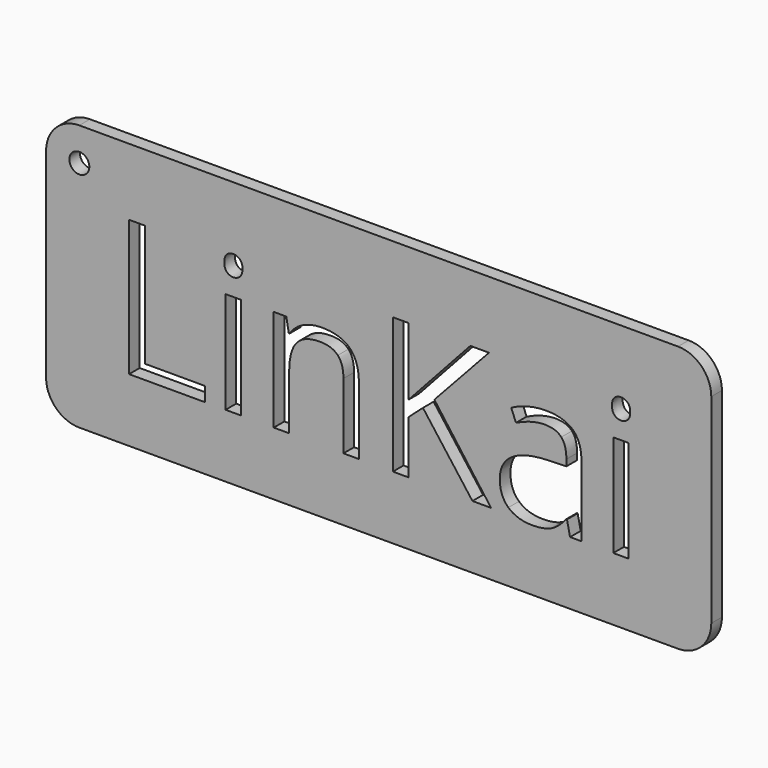
from build123d import *

# Parameters (mm, degrees)
F0_W     = 2.3208496367
F0_H     = 15.3158188932
F0_R     = 1.5
F1_DEPTH = 2


with BuildPart() as f1:
    # F0 (on Front) → F1 (new body)
    with BuildSketch(Plane.XZ):
        with BuildLine():
            ThreePointArc((0, 5), (1.4644660941, 1.4644660941), (5, 0))
            Line((5, 0), (95, 0))
            ThreePointArc((95, 0), (98.5355339059, 1.4644660941), (100, 5))
            Line((100, 5), (100, 35))
            ThreePointArc((100, 35), (98.5355339059, 38.5355339059), (95, 40))
            Line((95, 40), (5, 40))
            ThreePointArc((5, 40), (1.4644660941, 38.5355339059), (0, 35))
            Line((0, 35), (0, 5))
        make_face()
        Polygon((23.8661115754, 9.5062389972), (12.4765084451, 9.5062389972), (12.4765084451, 29.9377649894), (14.8510193451, 29.9377649894), (14.8510193451, 11.6571613002), (23.8661115754, 11.6571613002), align=None, mode=Mode.SUBTRACT)
        with Locations((28.1433614356, 17.1641484438)):
            Rectangle(F0_W, F0_H, mode=Mode.SUBTRACT)
        with BuildLine():
            Line((47.0254184507, 9.5062389972), (44.7045688141, 9.5062389972))
            Line((44.7045688141, 9.5062389972), (44.7045688141, 19.4156856154))
            add(Edge.make_bspline(
                [(44.7045688141, 19.4156856154), (44.7045688141, 21.2848862862), (43.8526962596, 22.2083071917)],
                knots=[0, 0, 0, 1, 1, 1], degree=2))
            add(Edge.make_bspline(
                [(43.8526962596, 22.2083071917), (43.0008237051, 23.1317280973), (41.1808125256, 23.1317280973)],
                knots=[0, 0, 0, 1, 1, 1], degree=2))
            add(Edge.make_bspline(
                [(41.1808125256, 23.1317280973), (38.779470994, 23.1317280973), (37.6615280091, 21.8326783488)],
                knots=[0, 0, 0, 1, 1, 1], degree=2))
            add(Edge.make_bspline(
                [(37.6615280091, 21.8326783488), (36.5435850242, 20.5336286004), (36.5435850242, 17.5420131727)],
                knots=[0, 0, 0, 1, 1, 1], degree=2))
            Line((36.5435850242, 17.5420131727), (36.5435850242, 9.5062389972))
            Line((36.5435850242, 9.5062389972), (34.2227353876, 9.5062389972))
            Line((34.2227353876, 9.5062389972), (34.2227353876, 24.8220578905))
            Line((34.2227353876, 24.8220578905), (36.1098231461, 24.8220578905))
            Line((36.1098231461, 24.8220578905), (36.485451989, 22.7247968508))
            Line((36.485451989, 22.7247968508), (36.5972462875, 22.7247968508))
            add(Edge.make_bspline(
                [(36.5972462875, 22.7247968508), (37.3127297978, 23.8561551515), (38.5983642305, 24.4799673371)],
                knots=[0, 0, 0, 1, 1, 1], degree=2))
            add(Edge.make_bspline(
                [(38.5983642305, 24.4799673371), (39.8839986631, 25.1037795227), (41.4625341578, 25.1037795227)],
                knots=[0, 0, 0, 1, 1, 1], degree=2))
            add(Edge.make_bspline(
                [(41.4625341578, 25.1037795227), (44.2305609885, 25.1037795227), (45.6279897196, 23.7689555987)],
                knots=[0, 0, 0, 1, 1, 1], degree=2))
            add(Edge.make_bspline(
                [(45.6279897196, 23.7689555987), (47.0254184507, 22.4341316747), (47.0254184507, 19.4961775104)],
                knots=[0, 0, 0, 1, 1, 1], degree=2))
            Line((47.0254184507, 19.4961775104), (47.0254184507, 9.5062389972))
        make_face(mode=Mode.SUBTRACT)
        Polygon((58.3703038616, 21.0612976892), (66.8935011785, 9.5062389972), (64.0986437162, 9.5062389972), (56.6531434368, 19.4156856154), (54.5111646777, 17.5151825411), (54.5111646777, 9.5062389972), (52.1366537777, 9.5062389972), (52.1366537777, 29.9377649894), (54.5111646777, 29.9377649894), (54.5111646777, 19.8047297742), (63.7766761366, 29.9377649894), (66.5849489147, 29.9377649894), align=None, mode=Mode.SUBTRACT)
        with BuildLine():
            Line((80.4921596469, 9.5062389972), (78.7705274502, 9.5062389972))
            Line((78.7705274502, 9.5062389972), (78.3099349404, 11.6884637038))
            Line((78.3099349404, 11.6884637038), (78.1981406419, 11.6884637038))
            add(Edge.make_bspline(
                [(78.1981406419, 11.6884637038), (77.0533670254, 10.2485531392), (75.9153010667, 9.7365352521)],
                knots=[0, 0, 0, 1, 1, 1], degree=2))
            add(Edge.make_bspline(
                [(75.9153010667, 9.7365352521), (74.7772351081, 9.224517365), (73.0690182271, 9.224517365)],
                knots=[0, 0, 0, 1, 1, 1], degree=2))
            add(Edge.make_bspline(
                [(73.0690182271, 9.224517365), (70.7928863099, 9.224517365), (69.5005442193, 10.4005933852)],
                knots=[0, 0, 0, 1, 1, 1], degree=2))
            add(Edge.make_bspline(
                [(69.5005442193, 10.4005933852), (68.2082021288, 11.5766694053), (68.2082021288, 13.7410070241)],
                knots=[0, 0, 0, 1, 1, 1], degree=2))
            add(Edge.make_bspline(
                [(68.2082021288, 13.7410070241), (68.2082021288, 18.3782345255), (75.6268717766, 18.6018231224)],
                knots=[0, 0, 0, 1, 1, 1], degree=2))
            Line((75.6268717766, 18.6018231224), (78.2249712735, 18.6867867893))
            Line((78.2249712735, 18.6867867893), (78.2249712735, 19.6392742124))
            add(Edge.make_bspline(
                [(78.2249712735, 19.6392742124), (78.2249712735, 21.4413983041), (77.451354728, 22.2999785165)],
                knots=[0, 0, 0, 1, 1, 1], degree=2))
            add(Edge.make_bspline(
                [(77.451354728, 22.2999785165), (76.6777381824, 23.1585587289), (74.9695213015, 23.1585587289)],
                knots=[0, 0, 0, 1, 1, 1], degree=2))
            add(Edge.make_bspline(
                [(74.9695213015, 23.1585587289), (73.0556029113, 23.1585587289), (70.6408460639, 21.9869544807)],
                knots=[0, 0, 0, 1, 1, 1], degree=2))
            Line((70.6408460639, 21.9869544807), (69.9253625536, 23.7622479408))
            add(Edge.make_bspline(
                [(69.9253625536, 23.7622479408), (71.0567208543, 24.3748806965), (72.4049600941, 24.7236789078)],
                knots=[0, 0, 0, 1, 1, 1], degree=2))
            add(Edge.make_bspline(
                [(72.4049600941, 24.7236789078), (73.7531993339, 25.0724771191), (75.1126180036, 25.0724771191)],
                knots=[0, 0, 0, 1, 1, 1], degree=2))
            add(Edge.make_bspline(
                [(75.1126180036, 25.0724771191), (77.8493424306, 25.0724771191), (79.1707510388, 23.8583910375)],
                knots=[0, 0, 0, 1, 1, 1], degree=2))
            add(Edge.make_bspline(
                [(79.1707510388, 23.8583910375), (80.4921596469, 22.6443049559), (80.4921596469, 19.9612417921)],
                knots=[0, 0, 0, 1, 1, 1], degree=2))
            Line((80.4921596469, 19.9612417921), (80.4921596469, 9.5062389972))
        make_face(mode=Mode.SUBTRACT)
        with Locations((86.4284368968, 17.1641484438)):
            Rectangle(F0_W, F0_H, mode=Mode.SUBTRACT)
        with BuildLine():
            add(Edge.make_bspline(
                [(27.1774586967, 27.8047297742), (26.786178652, 28.189302161), (26.786178652, 28.9718622504)],
                knots=[0, 0, 0, 1, 1, 1], degree=2))
            add(Edge.make_bspline(
                [(26.786178652, 28.9718622504), (26.786178652, 29.7678376557), (27.1774586967, 30.1389947267)],
                knots=[0, 0, 0, 1, 1, 1], degree=2))
            add(Edge.make_bspline(
                [(27.1774586967, 30.1389947267), (27.5687387414, 30.5101517977), (28.1590126374, 30.5101517977)],
                knots=[0, 0, 0, 1, 1, 1], degree=2))
            add(Edge.make_bspline(
                [(28.1590126374, 30.5101517977), (28.7179841299, 30.5101517977), (29.1226794904, 30.1322870688)],
                knots=[0, 0, 0, 1, 1, 1], degree=2))
            add(Edge.make_bspline(
                [(29.1226794904, 30.1322870688), (29.527374851, 29.7544223399), (29.527374851, 28.9718622504)],
                knots=[0, 0, 0, 1, 1, 1], degree=2))
            add(Edge.make_bspline(
                [(29.527374851, 28.9718622504), (29.527374851, 28.189302161), (29.1226794904, 27.8047297742)],
                knots=[0, 0, 0, 1, 1, 1], degree=2))
            add(Edge.make_bspline(
                [(29.1226794904, 27.8047297742), (28.7179841299, 27.4201573874), (28.1590126374, 27.4201573874)],
                knots=[0, 0, 0, 1, 1, 1], degree=2))
            add(Edge.make_bspline(
                [(28.1590126374, 27.4201573874), (27.5687387414, 27.4201573874), (27.1774586967, 27.8047297742)],
                knots=[0, 0, 0, 1, 1, 1], degree=2))
        make_face(mode=Mode.SUBTRACT)
        with Locations((5, 35)):
            Circle(F0_R, mode=Mode.SUBTRACT)
        with BuildLine():
            add(Edge.make_bspline(
                [(85.4625341578, 27.8047297742), (85.0712541131, 28.189302161), (85.0712541131, 28.9718622504)],
                knots=[0, 0, 0, 1, 1, 1], degree=2))
            add(Edge.make_bspline(
                [(85.0712541131, 28.9718622504), (85.0712541131, 29.7678376557), (85.4625341578, 30.1389947267)],
                knots=[0, 0, 0, 1, 1, 1], degree=2))
            add(Edge.make_bspline(
                [(85.4625341578, 30.1389947267), (85.8538142025, 30.5101517977), (86.4440880986, 30.5101517977)],
                knots=[0, 0, 0, 1, 1, 1], degree=2))
            add(Edge.make_bspline(
                [(86.4440880986, 30.5101517977), (87.003059591, 30.5101517977), (87.4077549516, 30.1322870688)],
                knots=[0, 0, 0, 1, 1, 1], degree=2))
            add(Edge.make_bspline(
                [(87.4077549516, 30.1322870688), (87.8124503121, 29.7544223399), (87.8124503121, 28.9718622504)],
                knots=[0, 0, 0, 1, 1, 1], degree=2))
            add(Edge.make_bspline(
                [(87.8124503121, 28.9718622504), (87.8124503121, 28.189302161), (87.4077549516, 27.8047297742)],
                knots=[0, 0, 0, 1, 1, 1], degree=2))
            add(Edge.make_bspline(
                [(87.4077549516, 27.8047297742), (87.003059591, 27.4201573874), (86.4440880986, 27.4201573874)],
                knots=[0, 0, 0, 1, 1, 1], degree=2))
            add(Edge.make_bspline(
                [(86.4440880986, 27.4201573874), (85.8538142025, 27.4201573874), (85.4625341578, 27.8047297742)],
                knots=[0, 0, 0, 1, 1, 1], degree=2))
        make_face(mode=Mode.SUBTRACT)
    extrude(amount=F1_DEPTH)


solid = f1.part
